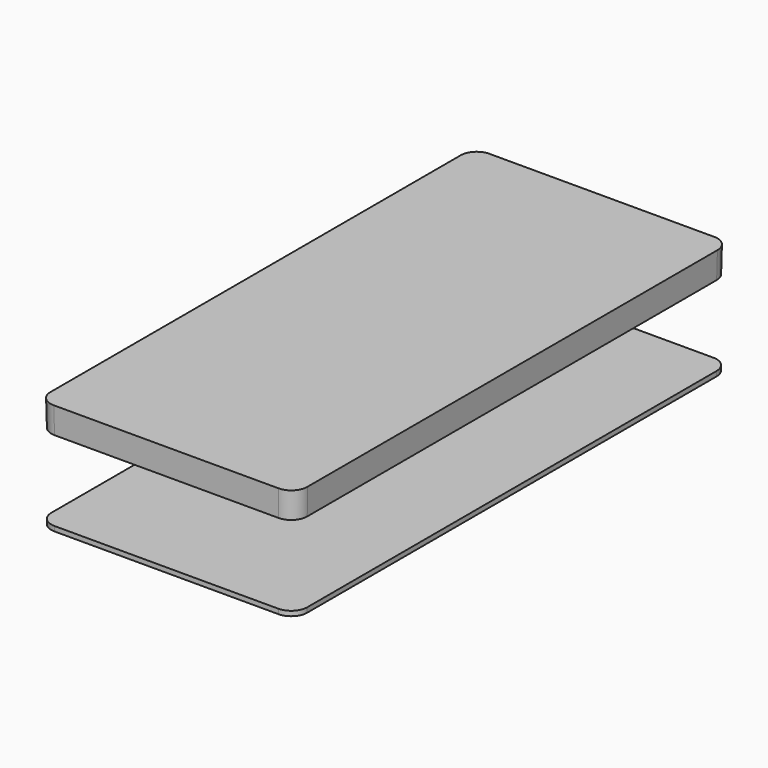
from build123d import *

# Parameters (mm, degrees)
F0_W     = 80
F0_H     = 170
F1_DEPTH = 8.25
F1_TAPER = -1
F2_R     = 5
F5_DEPTH = 1.5


with BuildPart() as f1:
    # F0 (on Top) → F1 (new body)
    with BuildSketch(Plane.XY):
        Rectangle(F0_W, F0_H)
    extrude(amount=F1_DEPTH, taper=F1_TAPER)

    # F2
    f2_edges = [f1.edges().sort_by_distance(p)[0] for p in [
        (-40.072002, -85.072002, 4.125),
        (40.072002, -85.072002, 4.125),
        (-40.072002, 85.072002, 4.125),
        (40.072002, 85.072002, 4.125),
    ]]
    fillet(f2_edges, radius=F2_R)


with BuildPart() as f5:
    # F4 (on offset) → F5 (new body)
    with BuildSketch(Plane(origin=(0, 0, -25), x_dir=(1, 0, 0), z_dir=(0, 0, -1))):
        with BuildLine():
            add(Edge.make_bspline(
                [(35.0007615242, -85), (40, -85), (40, -80.0007615242)],
                knots=[2.3563467834, 2.3563467834, 2.3563467834, 3.9268385237, 3.9268385237, 3.9268385237], degree=2, weights=[1, 0.7072144606, 1]))
            Line((40, -80.0007615242), (40, 80.0007615242))
            add(Edge.make_bspline(
                [(40, 80.0007615242), (40, 85), (35.0007615242, 85)],
                knots=[2.3563467834, 2.3563467834, 2.3563467834, 3.9268385237, 3.9268385237, 3.9268385237], degree=2, weights=[1, 0.7072144606, 1]))
            Line((35.0007615242, 85), (-35.0007615242, 85))
            add(Edge.make_bspline(
                [(-35.0007615242, 85), (-40, 85), (-40, 80.0007615242)],
                knots=[2.3563467834, 2.3563467834, 2.3563467834, 3.9268385237, 3.9268385237, 3.9268385237], degree=2, weights=[1, 0.7072144606, 1]))
            Line((-40, 80.0007615242), (-40, -80.0007615242))
            add(Edge.make_bspline(
                [(-40, -80.0007615242), (-40, -85), (-35.0007615242, -85)],
                knots=[2.3563467834, 2.3563467834, 2.3563467834, 3.9268385237, 3.9268385237, 3.9268385237], degree=2, weights=[1, 0.7072144606, 1]))
            Line((-35.0007615242, -85), (35.0007615242, -85))
        make_face()
    extrude(amount=F5_DEPTH)


solid = Compound([f1.part, f5.part])
